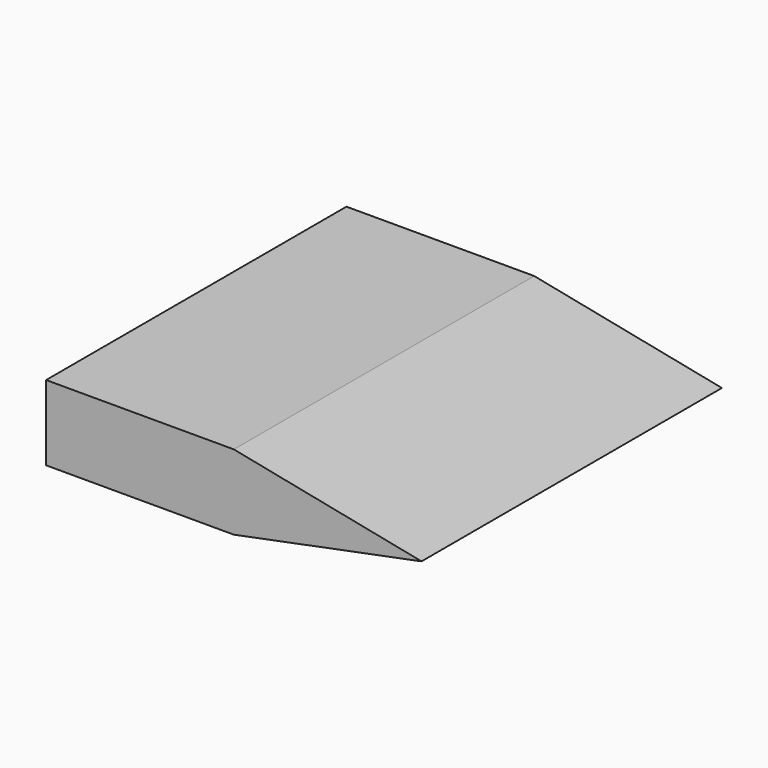
from build123d import *

# Parameters (mm, degrees)
F1_DEPTH = 100


with BuildPart() as f1:
    # F0 (on Front) → F1 (new body)
    with BuildSketch(Plane.XZ):
        Polygon((0, 20), (0, 0), (50, 0), (50, 10), (50, 20), align=None)
        Polygon((50, 20), (50, 10), (100, 10), align=None)
        Polygon((50, 10), (50, 0), (100, 10), align=None)
    extrude(amount=F1_DEPTH)


solid = f1.part
